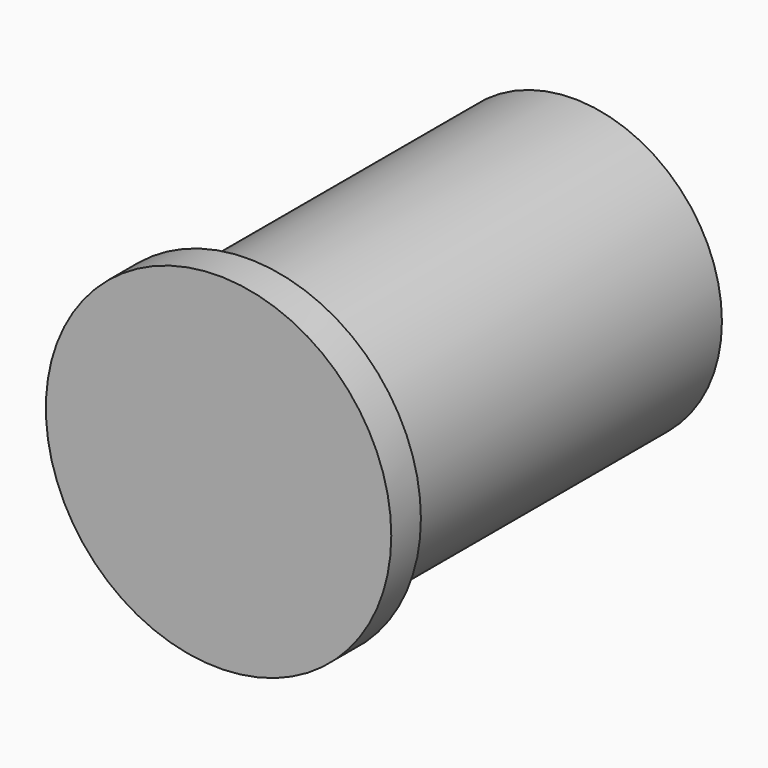
from build123d import *

# Parameters (mm, degrees)
CYLINDER004_R          = 7
CYLINDER004_DEPTH      = 1.5
CYLINDER003_R          = 6
CYLINDER003_DEPTH      = 18
FUSION_PLACEMENT_ANGLE = 270


with BuildPart() as cylinder004:
    # Cylinder004 → Cylinder004 (new body)
    with BuildSketch(Plane.XY):
        Circle(CYLINDER004_R)
    extrude(amount=CYLINDER004_DEPTH)


with BuildPart() as dc_jack:
    # Cylinder003 → Cylinder003 (new body)
    with BuildSketch(Plane.XY):
        Circle(CYLINDER003_R)
    extrude(amount=CYLINDER003_DEPTH)

    # Fusion: union Cylinder004
    add(cylinder004.part)


with BuildPart() as dc_jack_1:
    # Fusion placement: moved
    add(dc_jack.part.moved(Location((173.5, -2, 13))).rotate(Axis((173.5, -2, 13), (1, 0, 0)), FUSION_PLACEMENT_ANGLE))


solid = dc_jack_1.part
